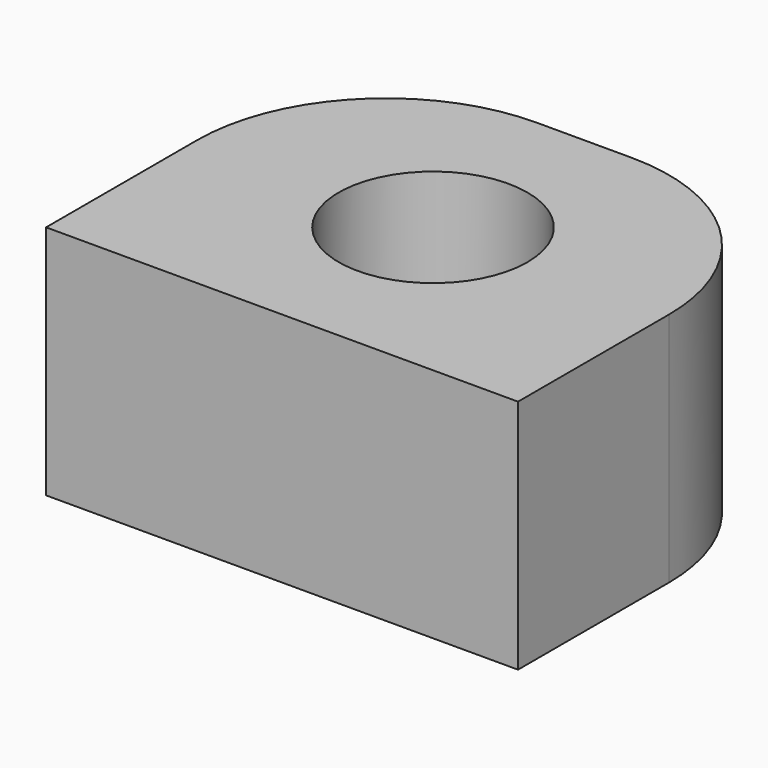
from build123d import *

# Parameters (mm, degrees)
F0_R     = 2
F1_DEPTH = 5


with BuildPart() as f1:
    # F0 (on Top) → F1 (new body)
    with BuildSketch(Plane.XY):
        with BuildLine():
            Line((-5, -4), (5, -4))
            Line((5, -4), (5, 0))
            ThreePointArc((5, 0), (3.828427, 2.828427), (1, 4))
            Line((1, 4), (-1, 4))
            ThreePointArc((-1, 4), (-3.828427, 2.828427), (-5, 0))
            Line((-5, 0), (-5, -4))
        make_face()
        Circle(F0_R, mode=Mode.SUBTRACT)
    extrude(amount=F1_DEPTH)


solid = f1.part
